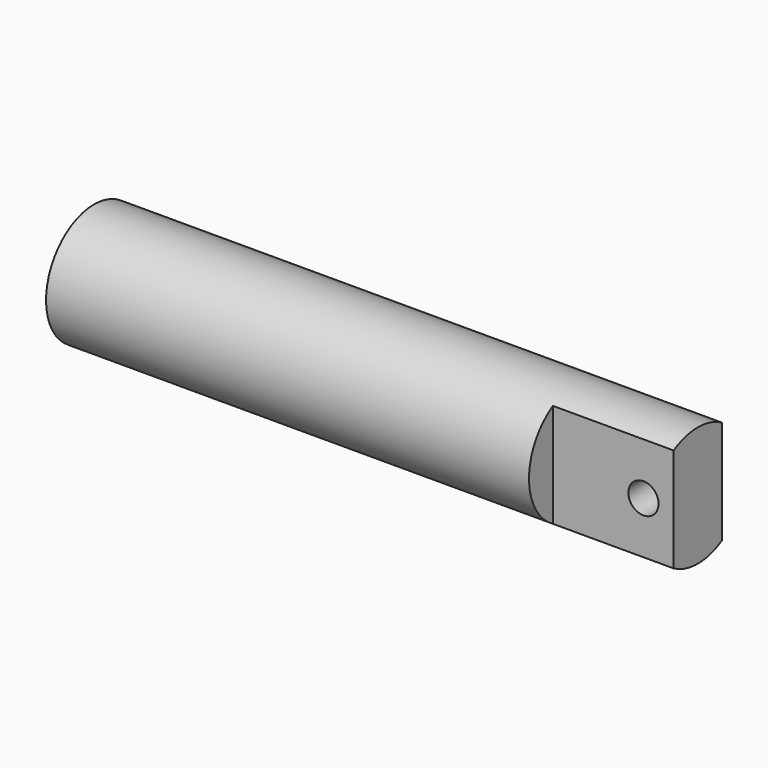
from build123d import *

# Parameters (mm, degrees)
F3_DEPTH = 25.4
F4_R     = 3.175
F5_DEPTH = 18.9875


with BuildPart() as f1:
    # F0 (on Front) → F1 (revolve)
    with BuildSketch(Plane.XZ):
        with BuildLine():
            Line((-54.4659804207, 12.6365), (-54.4659804207, 10.9985226281))
            ThreePointArc((-54.4659804207, 10.9985226281), (-49.8174577926, 6.35), (-48.1159804207, 0))
            Line((-48.1159804207, 0), (72.5340195793, 0))
            Line((72.5340195793, 0), (72.5340195793, 12.6365))
            Line((72.5340195793, 12.6365), (-54.4659804207, 12.6365))
        make_face()
    revolve(axis=Axis((18.0148258805, 0, 0), (1, 0, 0)))

    # F2 (on face) → F3 (cut)
    with BuildSketch(Plane.YZ.offset(72.5340195793)):
        with BuildLine():
            Line((-6.35, -10.9251376307), (-6.35, 10.9251376307))
            ThreePointArc((-6.35, 10.9251376307), (-12.6365, 0), (-6.35, -10.9251376307))
        make_face()
        with BuildLine():
            ThreePointArc((12.6365, 0), (10.9526916155, 6.3023550063), (6.35, 10.9251376307))
            Line((6.35, 10.9251376307), (6.35, -10.9251376307))
            ThreePointArc((6.35, -10.9251376307), (10.9526916155, -6.3023550063), (12.6365, 0))
        make_face()
    extrude(amount=-F3_DEPTH, mode=Mode.SUBTRACT)

    # F4 (on face) → F5 (cut, through all)
    with BuildSketch(Plane.XZ.offset(6.35)):
        with Locations((66.1840195793, 0)):
            Circle(F4_R)
    extrude(amount=-F5_DEPTH, mode=Mode.SUBTRACT)


solid = f1.part
